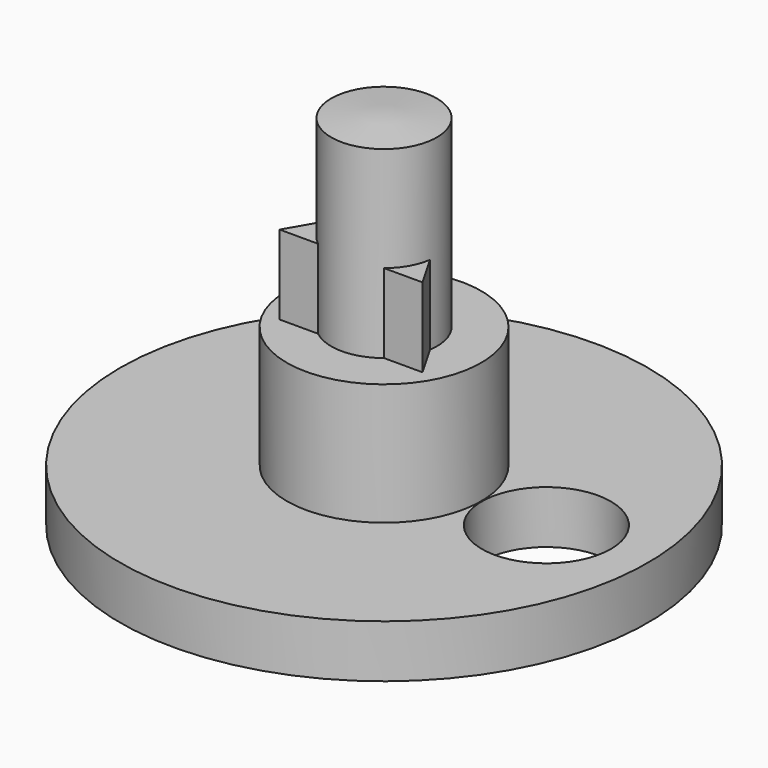
from build123d import *

# Parameters (mm, degrees)
F3_DEPTH = 6
F4_R     = 4.8870891215
F5_DEPTH = 4.0010006557


with BuildPart() as f1:
    # F0 (on Front) → F1 (revolve)
    with BuildSketch(Plane.XZ):
        Polygon((-7.3680463247, -9.7499769181), (-20, -9.7499769181), (-20, -13.7499775738), (0, -13.7499775738), (0, 13.7500224262), (-4, 13.4215392172), (-4, -0.5182113382), (-7.3680463247, -0.5182113382), align=None)
    revolve(axis=Axis((0, 0, 2.24262e-05), (0, 0, 1)))

    # F2 (on face) → F3 (join)
    with BuildSketch(Plane.XY.offset(-0.5182113382)):
        Polygon((-1.4578928646, 3.7248554865), (1.4578928646, 3.7248554865), (0, 6.25), align=None)
        Polygon((-3.954765909, -0.5998554865), (-5.4126587737, -3.125), (-2.4968730444, -3.125), align=None)
        Polygon((2.4968730444, -3.125), (5.4126587737, -3.125), (3.954765909, -0.5998554865), align=None)
    extrude(amount=F3_DEPTH)

    # F4 (on face) → F5 (cut, through all)
    with BuildSketch(Plane.XY.offset(-9.7499769181)):
        with Locations((12.3, 0)):
            Circle(F4_R)
    extrude(amount=-F5_DEPTH, mode=Mode.SUBTRACT)


solid = f1.part
